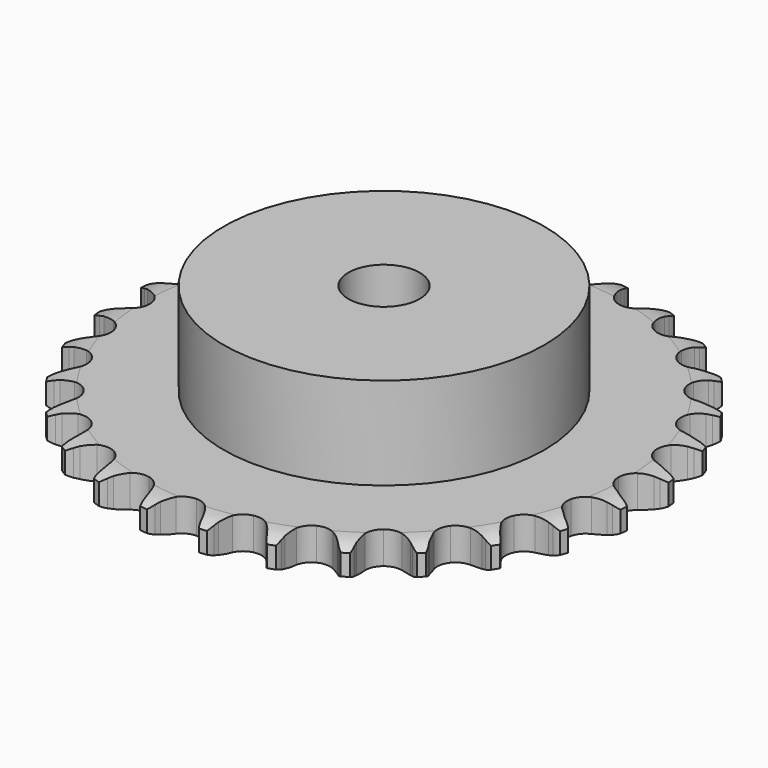
from build123d import *

# Parameters (mm, degrees)
PAD_DEPTH         = 9.1
SKETCH001_R       = 45
PAD001_DEPTH      = 35
SKETCH002_R       = 10
POCKET_DEPTH      = 0.001
POCKET_DEPTH_BACK = 35.001


with BuildPart() as part:
    # Sprocket → Pad (new body)
    with BuildSketch(Plane.XY):
        with BuildLine():
            ThreePointArc((-8.494226, 75.388337), (-7.267577, 73.960956), (-6.394077, 72.293897))
            Line((-6.394077, 72.293897), (-5.899023, 71.013786))
            ThreePointArc((-5.899023, 71.013786), (-5.112344, 69.337671), (-4.100051, 67.787353))
            ThreePointArc((-4.100051, 67.787353), (-2.289278, 66.287069), (0, 65.749521))
            ThreePointArc((0, 65.749521), (2.289278, 66.287069), (4.100051, 67.787353))
            ThreePointArc((4.100051, 67.787353), (5.112344, 69.337671), (5.899023, 71.013786))
            Line((5.899023, 71.013786), (6.394077, 72.293897))
            ThreePointArc((6.394077, 72.293897), (7.267577, 73.960956), (8.494226, 75.388337))
            ThreePointArc((8.494226, 75.388337), (9.372497, 73.723788), (9.853141, 71.904154))
            Line((9.853141, 71.904154), (10.050932, 70.545978))
            ThreePointArc((10.050932, 70.545978), (10.444917, 68.736835), (11.086851, 67.00013))
            ThreePointArc((11.086851, 67.00013), (12.518379, 65.134526), (14.630645, 64.101044))
            ThreePointArc((14.630645, 64.101044), (16.982142, 64.115701), (19.081359, 65.175436))
            Line((19.081359, 65.175436), (21.553176, 67.920666))
            ThreePointArc((21.553176, 67.920666), (21.922204, 68.499522), (22.32067, 69.058522))
            ThreePointArc((22.32067, 69.058522), (23.543224, 70.489412), (25.056741, 71.608051))
            ThreePointArc((25.056741, 71.608051), (25.542596, 69.789802), (25.606282, 67.908837))
            Line((25.606282, 67.908837), (25.496891, 66.5407))
            ThreePointArc((25.496891, 66.5407), (25.478425, 64.689246), (25.717812, 62.853241))
            ThreePointArc((25.717812, 62.853241), (26.698313, 60.715866), (28.527648, 59.238272))
            ThreePointArc((28.527648, 59.238272), (30.82345, 58.729305), (33.105849, 59.29535))
            Line((33.105849, 59.29535), (36.126563, 61.42172))
            ThreePointArc((36.126563, 61.42172), (36.615146, 61.903947), (37.128011, 62.360265))
            ThreePointArc((37.128011, 62.360265), (38.638316, 63.483235), (40.362807, 64.237039))
            ThreePointArc((40.362807, 64.237039), (40.431881, 62.356264), (40.075417, 60.508287))
            Line((40.075417, 60.508287), (39.66433, 59.198794))
            ThreePointArc((39.66433, 59.198794), (39.23434, 57.397869), (39.059175, 55.554627))
            ThreePointArc((39.059175, 55.554627), (39.539482, 53.252659), (40.994156, 51.405046))
            ThreePointArc((40.994156, 51.405046), (43.119141, 50.397976), (45.470273, 50.441947))
            Line((45.470273, 50.441947), (48.888413, 51.842833))
            ThreePointArc((48.888413, 51.842833), (49.472052, 52.204249), (50.073598, 52.535003))
            ThreePointArc((50.073598, 52.535003), (51.795922, 53.293744), (53.644913, 53.644913))
            ThreePointArc((53.644913, 53.644913), (53.293744, 51.795922), (52.535003, 50.073598))
            Line((52.535003, 50.073598), (51.842833, 48.888413))
            ThreePointArc((51.842833, 48.888413), (51.02288, 47.228322), (50.441947, 45.470273))
            ThreePointArc((50.441947, 45.470273), (50.397976, 43.119141), (51.405046, 40.994156))
            ThreePointArc((51.405046, 40.994156), (53.252659, 39.539482), (55.554627, 39.059175))
            Line((55.554627, 39.059175), (59.198794, 39.66433))
            ThreePointArc((59.198794, 39.66433), (59.848223, 39.886813), (60.508287, 40.075417))
            ThreePointArc((60.508287, 40.075417), (62.356264, 40.431881), (64.237039, 40.362807))
            ThreePointArc((64.237039, 40.362807), (63.483235, 38.638316), (62.360265, 37.128011))
            Line((62.360265, 37.128011), (61.42172, 36.126563))
            ThreePointArc((61.42172, 36.126563), (60.25292, 34.690551), (59.29535, 33.105849))
            ThreePointArc((59.29535, 33.105849), (58.729305, 30.82345), (59.238272, 28.527648))
            ThreePointArc((59.238272, 28.527648), (60.715866, 26.698313), (62.853241, 25.717812))
            Line((62.853241, 25.717812), (66.5407, 25.496891))
            ThreePointArc((66.5407, 25.496891), (67.223353, 25.569285), (67.908837, 25.606282))
            ThreePointArc((67.908837, 25.606282), (69.789802, 25.542596), (71.608051, 25.056741))
            ThreePointArc((71.608051, 25.056741), (70.489412, 23.543224), (69.058522, 22.32067))
            Line((69.058522, 22.32067), (67.920666, 21.553176))
            ThreePointArc((67.920666, 21.553176), (66.461628, 20.41325), (65.175436, 19.081359))
            ThreePointArc((65.175436, 19.081359), (64.115701, 16.982142), (64.101044, 14.630645))
            ThreePointArc((64.101044, 14.630645), (65.134526, 12.518379), (67.00013, 11.086851))
            Line((67.00013, 11.086851), (70.545978, 10.050932))
            ThreePointArc((70.545978, 10.050932), (71.227625, 9.969606), (71.904154, 9.853141))
            ThreePointArc((71.904154, 9.853141), (73.723788, 9.372497), (75.388337, 8.494226))
            ThreePointArc((75.388337, 8.494226), (73.960956, 7.267577), (72.293897, 6.394077))
            Line((72.293897, 6.394077), (71.013786, 5.899023))
            ThreePointArc((71.013786, 5.899023), (69.337671, 5.112344), (67.787353, 4.100051))
            ThreePointArc((67.787353, 4.100051), (66.287069, 2.289278), (65.749521, 0))
            ThreePointArc((65.749521, 0), (66.287069, -2.289278), (67.787353, -4.100051))
            Line((67.787353, -4.100051), (71.013786, -5.899023))
            ThreePointArc((71.013786, -5.899023), (71.660246, -6.129991), (72.293897, -6.394077))
            ThreePointArc((72.293897, -6.394077), (73.960956, -7.267577), (75.388337, -8.494226))
            ThreePointArc((75.388337, -8.494226), (73.723788, -9.372497), (71.904154, -9.853141))
            Line((71.904154, -9.853141), (70.545978, -10.050932))
            ThreePointArc((70.545978, -10.050932), (68.736835, -10.444917), (67.00013, -11.086851))
            ThreePointArc((67.00013, -11.086851), (65.134526, -12.518379), (64.101044, -14.630645))
            ThreePointArc((64.101044, -14.630645), (64.115701, -16.982142), (65.175436, -19.081359))
            Line((65.175436, -19.081359), (67.920666, -21.553176))
            ThreePointArc((67.920666, -21.553176), (68.499522, -21.922204), (69.058522, -22.32067))
            ThreePointArc((69.058522, -22.32067), (70.489412, -23.543224), (71.608051, -25.056741))
            ThreePointArc((71.608051, -25.056741), (69.789802, -25.542596), (67.908837, -25.606282))
            Line((67.908837, -25.606282), (66.5407, -25.496891))
            ThreePointArc((66.5407, -25.496891), (64.689246, -25.478425), (62.853241, -25.717812))
            ThreePointArc((62.853241, -25.717812), (60.715866, -26.698313), (59.238272, -28.527648))
            ThreePointArc((59.238272, -28.527648), (58.729305, -30.82345), (59.29535, -33.105849))
            Line((59.29535, -33.105849), (61.42172, -36.126563))
            ThreePointArc((61.42172, -36.126563), (61.903947, -36.615146), (62.360265, -37.128011))
            ThreePointArc((62.360265, -37.128011), (63.483235, -38.638316), (64.237039, -40.362807))
            ThreePointArc((64.237039, -40.362807), (62.356264, -40.431881), (60.508287, -40.075417))
            Line((60.508287, -40.075417), (59.198794, -39.66433))
            ThreePointArc((59.198794, -39.66433), (57.397869, -39.23434), (55.554627, -39.059175))
            ThreePointArc((55.554627, -39.059175), (53.252659, -39.539482), (51.405046, -40.994156))
            ThreePointArc((51.405046, -40.994156), (50.397976, -43.119141), (50.441947, -45.470273))
            Line((50.441947, -45.470273), (51.842833, -48.888413))
            ThreePointArc((51.842833, -48.888413), (52.204249, -49.472052), (52.535003, -50.073598))
            ThreePointArc((52.535003, -50.073598), (53.293744, -51.795922), (53.644913, -53.644913))
            ThreePointArc((53.644913, -53.644913), (51.795922, -53.293744), (50.073598, -52.535003))
            Line((50.073598, -52.535003), (48.888413, -51.842833))
            ThreePointArc((48.888413, -51.842833), (47.228322, -51.02288), (45.470273, -50.441947))
            ThreePointArc((45.470273, -50.441947), (43.119141, -50.397976), (40.994156, -51.405046))
            ThreePointArc((40.994156, -51.405046), (39.539482, -53.252659), (39.059175, -55.554627))
            Line((39.059175, -55.554627), (39.66433, -59.198794))
            ThreePointArc((39.66433, -59.198794), (39.886813, -59.848223), (40.075417, -60.508287))
            ThreePointArc((40.075417, -60.508287), (40.431881, -62.356264), (40.362807, -64.237039))
            ThreePointArc((40.362807, -64.237039), (38.638316, -63.483235), (37.128011, -62.360265))
            Line((37.128011, -62.360265), (36.126563, -61.42172))
            ThreePointArc((36.126563, -61.42172), (34.690551, -60.25292), (33.105849, -59.29535))
            ThreePointArc((33.105849, -59.29535), (30.82345, -58.729305), (28.527648, -59.238272))
            ThreePointArc((28.527648, -59.238272), (26.698313, -60.715866), (25.717812, -62.853241))
            Line((25.717812, -62.853241), (25.496891, -66.5407))
            ThreePointArc((25.496891, -66.5407), (25.569285, -67.223353), (25.606282, -67.908837))
            ThreePointArc((25.606282, -67.908837), (25.542596, -69.789802), (25.056741, -71.608051))
            ThreePointArc((25.056741, -71.608051), (23.543224, -70.489412), (22.32067, -69.058522))
            Line((22.32067, -69.058522), (21.553176, -67.920666))
            ThreePointArc((21.553176, -67.920666), (20.41325, -66.461628), (19.081359, -65.175436))
            ThreePointArc((19.081359, -65.175436), (16.982142, -64.115701), (14.630645, -64.101044))
            ThreePointArc((14.630645, -64.101044), (12.518379, -65.134526), (11.086851, -67.00013))
            Line((11.086851, -67.00013), (10.050932, -70.545978))
            ThreePointArc((10.050932, -70.545978), (9.969606, -71.227625), (9.853141, -71.904154))
            ThreePointArc((9.853141, -71.904154), (9.372497, -73.723788), (8.494226, -75.388337))
            ThreePointArc((8.494226, -75.388337), (7.267577, -73.960956), (6.394077, -72.293897))
            Line((6.394077, -72.293897), (5.899023, -71.013786))
            ThreePointArc((5.899023, -71.013786), (5.112344, -69.337671), (4.100051, -67.787353))
            ThreePointArc((4.100051, -67.787353), (2.289278, -66.287069), (0, -65.749521))
            ThreePointArc((0, -65.749521), (-2.289278, -66.287069), (-4.100051, -67.787353))
            Line((-4.100051, -67.787353), (-5.899023, -71.013786))
            ThreePointArc((-5.899023, -71.013786), (-6.129991, -71.660246), (-6.394077, -72.293897))
            ThreePointArc((-6.394077, -72.293897), (-7.267577, -73.960956), (-8.494226, -75.388337))
            ThreePointArc((-8.494226, -75.388337), (-9.372497, -73.723788), (-9.853141, -71.904154))
            Line((-9.853141, -71.904154), (-10.050932, -70.545978))
            ThreePointArc((-10.050932, -70.545978), (-10.444917, -68.736835), (-11.086851, -67.00013))
            ThreePointArc((-11.086851, -67.00013), (-12.518379, -65.134526), (-14.630645, -64.101044))
            ThreePointArc((-14.630645, -64.101044), (-16.982142, -64.115701), (-19.081359, -65.175436))
            Line((-19.081359, -65.175436), (-21.553176, -67.920666))
            ThreePointArc((-21.553176, -67.920666), (-21.922204, -68.499522), (-22.32067, -69.058522))
            ThreePointArc((-22.32067, -69.058522), (-23.543224, -70.489412), (-25.056741, -71.608051))
            ThreePointArc((-25.056741, -71.608051), (-25.542596, -69.789802), (-25.606282, -67.908837))
            Line((-25.606282, -67.908837), (-25.496891, -66.5407))
            ThreePointArc((-25.496891, -66.5407), (-25.478425, -64.689246), (-25.717812, -62.853241))
            ThreePointArc((-25.717812, -62.853241), (-26.698313, -60.715866), (-28.527648, -59.238272))
            ThreePointArc((-28.527648, -59.238272), (-30.82345, -58.729305), (-33.105849, -59.29535))
            Line((-33.105849, -59.29535), (-36.126563, -61.42172))
            ThreePointArc((-36.126563, -61.42172), (-36.615146, -61.903947), (-37.128011, -62.360265))
            ThreePointArc((-37.128011, -62.360265), (-38.638316, -63.483235), (-40.362807, -64.237039))
            ThreePointArc((-40.362807, -64.237039), (-40.431881, -62.356264), (-40.075417, -60.508287))
            Line((-40.075417, -60.508287), (-39.66433, -59.198794))
            ThreePointArc((-39.66433, -59.198794), (-39.23434, -57.397869), (-39.059175, -55.554627))
            ThreePointArc((-39.059175, -55.554627), (-39.539482, -53.252659), (-40.994156, -51.405046))
            ThreePointArc((-40.994156, -51.405046), (-43.119141, -50.397976), (-45.470273, -50.441947))
            Line((-45.470273, -50.441947), (-48.888413, -51.842833))
            ThreePointArc((-48.888413, -51.842833), (-49.472052, -52.204249), (-50.073598, -52.535003))
            ThreePointArc((-50.073598, -52.535003), (-51.795922, -53.293744), (-53.644913, -53.644913))
            ThreePointArc((-53.644913, -53.644913), (-53.293744, -51.795922), (-52.535003, -50.073598))
            Line((-52.535003, -50.073598), (-51.842833, -48.888413))
            ThreePointArc((-51.842833, -48.888413), (-51.02288, -47.228322), (-50.441947, -45.470273))
            ThreePointArc((-50.441947, -45.470273), (-50.397976, -43.119141), (-51.405046, -40.994156))
            ThreePointArc((-51.405046, -40.994156), (-53.252659, -39.539482), (-55.554627, -39.059175))
            Line((-55.554627, -39.059175), (-59.198794, -39.66433))
            ThreePointArc((-59.198794, -39.66433), (-59.848223, -39.886813), (-60.508287, -40.075417))
            ThreePointArc((-60.508287, -40.075417), (-62.356264, -40.431881), (-64.237039, -40.362807))
            ThreePointArc((-64.237039, -40.362807), (-63.483235, -38.638316), (-62.360265, -37.128011))
            Line((-62.360265, -37.128011), (-61.42172, -36.126563))
            ThreePointArc((-61.42172, -36.126563), (-60.25292, -34.690551), (-59.29535, -33.105849))
            ThreePointArc((-59.29535, -33.105849), (-58.729305, -30.82345), (-59.238272, -28.527648))
            ThreePointArc((-59.238272, -28.527648), (-60.715866, -26.698313), (-62.853241, -25.717812))
            Line((-62.853241, -25.717812), (-66.5407, -25.496891))
            ThreePointArc((-66.5407, -25.496891), (-67.223353, -25.569285), (-67.908837, -25.606282))
            ThreePointArc((-67.908837, -25.606282), (-69.789802, -25.542596), (-71.608051, -25.056741))
            ThreePointArc((-71.608051, -25.056741), (-70.489412, -23.543224), (-69.058522, -22.32067))
            Line((-69.058522, -22.32067), (-67.920666, -21.553176))
            ThreePointArc((-67.920666, -21.553176), (-66.461628, -20.41325), (-65.175436, -19.081359))
            ThreePointArc((-65.175436, -19.081359), (-64.115701, -16.982142), (-64.101044, -14.630645))
            ThreePointArc((-64.101044, -14.630645), (-65.134526, -12.518379), (-67.00013, -11.086851))
            Line((-67.00013, -11.086851), (-70.545978, -10.050932))
            ThreePointArc((-70.545978, -10.050932), (-71.227625, -9.969606), (-71.904154, -9.853141))
            ThreePointArc((-71.904154, -9.853141), (-73.723788, -9.372497), (-75.388337, -8.494226))
            ThreePointArc((-75.388337, -8.494226), (-73.960956, -7.267577), (-72.293897, -6.394077))
            Line((-72.293897, -6.394077), (-71.013786, -5.899023))
            ThreePointArc((-71.013786, -5.899023), (-69.337671, -5.112344), (-67.787353, -4.100051))
            ThreePointArc((-67.787353, -4.100051), (-66.287069, -2.289278), (-65.749521, 0))
            ThreePointArc((-65.749521, 0), (-66.287069, 2.289278), (-67.787353, 4.100051))
            Line((-67.787353, 4.100051), (-71.013786, 5.899023))
            ThreePointArc((-71.013786, 5.899023), (-71.660246, 6.129991), (-72.293897, 6.394077))
            ThreePointArc((-72.293897, 6.394077), (-73.960956, 7.267577), (-75.388337, 8.494226))
            ThreePointArc((-75.388337, 8.494226), (-73.723788, 9.372497), (-71.904154, 9.853141))
            Line((-71.904154, 9.853141), (-70.545978, 10.050932))
            ThreePointArc((-70.545978, 10.050932), (-68.736835, 10.444917), (-67.00013, 11.086851))
            ThreePointArc((-67.00013, 11.086851), (-65.134526, 12.518379), (-64.101044, 14.630645))
            ThreePointArc((-64.101044, 14.630645), (-64.115701, 16.982142), (-65.175436, 19.081359))
            Line((-65.175436, 19.081359), (-67.920666, 21.553176))
            ThreePointArc((-67.920666, 21.553176), (-68.499522, 21.922204), (-69.058522, 22.32067))
            ThreePointArc((-69.058522, 22.32067), (-70.489412, 23.543224), (-71.608051, 25.056741))
            ThreePointArc((-71.608051, 25.056741), (-69.789802, 25.542596), (-67.908837, 25.606282))
            Line((-67.908837, 25.606282), (-66.5407, 25.496891))
            ThreePointArc((-66.5407, 25.496891), (-64.689246, 25.478425), (-62.853241, 25.717812))
            ThreePointArc((-62.853241, 25.717812), (-60.715866, 26.698313), (-59.238272, 28.527648))
            ThreePointArc((-59.238272, 28.527648), (-58.729305, 30.82345), (-59.29535, 33.105849))
            Line((-59.29535, 33.105849), (-61.42172, 36.126563))
            ThreePointArc((-61.42172, 36.126563), (-61.903947, 36.615146), (-62.360265, 37.128011))
            ThreePointArc((-62.360265, 37.128011), (-63.483235, 38.638316), (-64.237039, 40.362807))
            ThreePointArc((-64.237039, 40.362807), (-62.356264, 40.431881), (-60.508287, 40.075417))
            Line((-60.508287, 40.075417), (-59.198794, 39.66433))
            ThreePointArc((-59.198794, 39.66433), (-57.397869, 39.23434), (-55.554627, 39.059175))
            ThreePointArc((-55.554627, 39.059175), (-53.252659, 39.539482), (-51.405046, 40.994156))
            ThreePointArc((-51.405046, 40.994156), (-50.397976, 43.119141), (-50.441947, 45.470273))
            Line((-50.441947, 45.470273), (-51.842833, 48.888413))
            ThreePointArc((-51.842833, 48.888413), (-52.204249, 49.472052), (-52.535003, 50.073598))
            ThreePointArc((-52.535003, 50.073598), (-53.293744, 51.795922), (-53.644913, 53.644913))
            ThreePointArc((-53.644913, 53.644913), (-51.795922, 53.293744), (-50.073598, 52.535003))
            Line((-50.073598, 52.535003), (-48.888413, 51.842833))
            ThreePointArc((-48.888413, 51.842833), (-47.228322, 51.02288), (-45.470273, 50.441947))
            ThreePointArc((-45.470273, 50.441947), (-43.119141, 50.397976), (-40.994156, 51.405046))
            ThreePointArc((-40.994156, 51.405046), (-39.539482, 53.252659), (-39.059175, 55.554627))
            Line((-39.059175, 55.554627), (-39.66433, 59.198794))
            ThreePointArc((-39.66433, 59.198794), (-39.886813, 59.848223), (-40.075417, 60.508287))
            ThreePointArc((-40.075417, 60.508287), (-40.431881, 62.356264), (-40.362807, 64.237039))
            ThreePointArc((-40.362807, 64.237039), (-38.638316, 63.483235), (-37.128011, 62.360265))
            Line((-37.128011, 62.360265), (-36.126563, 61.42172))
            ThreePointArc((-36.126563, 61.42172), (-34.690551, 60.25292), (-33.105849, 59.29535))
            ThreePointArc((-33.105849, 59.29535), (-30.82345, 58.729305), (-28.527648, 59.238272))
            ThreePointArc((-28.527648, 59.238272), (-26.698313, 60.715866), (-25.717812, 62.853241))
            Line((-25.717812, 62.853241), (-25.496891, 66.5407))
            ThreePointArc((-25.496891, 66.5407), (-25.569285, 67.223353), (-25.606282, 67.908837))
            ThreePointArc((-25.606282, 67.908837), (-25.542596, 69.789802), (-25.056741, 71.608051))
            ThreePointArc((-25.056741, 71.608051), (-23.543224, 70.489412), (-22.32067, 69.058522))
            Line((-22.32067, 69.058522), (-21.553176, 67.920666))
            ThreePointArc((-21.553176, 67.920666), (-20.41325, 66.461628), (-19.081359, 65.175436))
            ThreePointArc((-19.081359, 65.175436), (-16.982142, 64.115701), (-14.630645, 64.101044))
            ThreePointArc((-14.630645, 64.101044), (-12.518379, 65.134526), (-11.086851, 67.00013))
            Line((-11.086851, 67.00013), (-10.050932, 70.545978))
            ThreePointArc((-10.050932, 70.545978), (-9.969606, 71.227625), (-9.853141, 71.904154))
            ThreePointArc((-9.853141, 71.904154), (-9.372497, 73.723788), (-8.494226, 75.388337))
        make_face()
    extrude(amount=PAD_DEPTH)

    # Sketch → Groove (revolve, cut)
    with BuildSketch(Plane.XZ):
        with BuildLine():
            Line((67.375762, 0), (74.35, 0))
            Line((81.324238, 0), (74.35, 0))
            Line((81.324238, 9.1), (81.324238, 0))
            Line((74.35, 9.1), (81.324238, 9.1))
            Line((67.375762, 9.1), (74.35, 9.1))
            ThreePointArc((74.35, 7.5), (70.95347, 8.694871), (67.375762, 9.1))
            Line((74.35, 1.6), (74.35, 7.5))
            ThreePointArc((67.375762, 0), (70.95347, 0.405129), (74.35, 1.6))
        make_face()
    revolve(axis=Axis((0, 0, 0), (0, 0, 1)), mode=Mode.SUBTRACT)

    # Sketch001 → Pad001 (join)
    with BuildSketch(Plane.XY):
        Circle(SKETCH001_R)
    extrude(amount=PAD001_DEPTH)

    # Sketch002 → Pocket (cut, two sides)
    with BuildSketch(Plane.XY) as pocket_sk:
        Circle(SKETCH002_R)
    extrude(amount=-POCKET_DEPTH, mode=Mode.SUBTRACT)
    extrude(pocket_sk.sketch, amount=POCKET_DEPTH_BACK, mode=Mode.SUBTRACT)


solid = part.part
